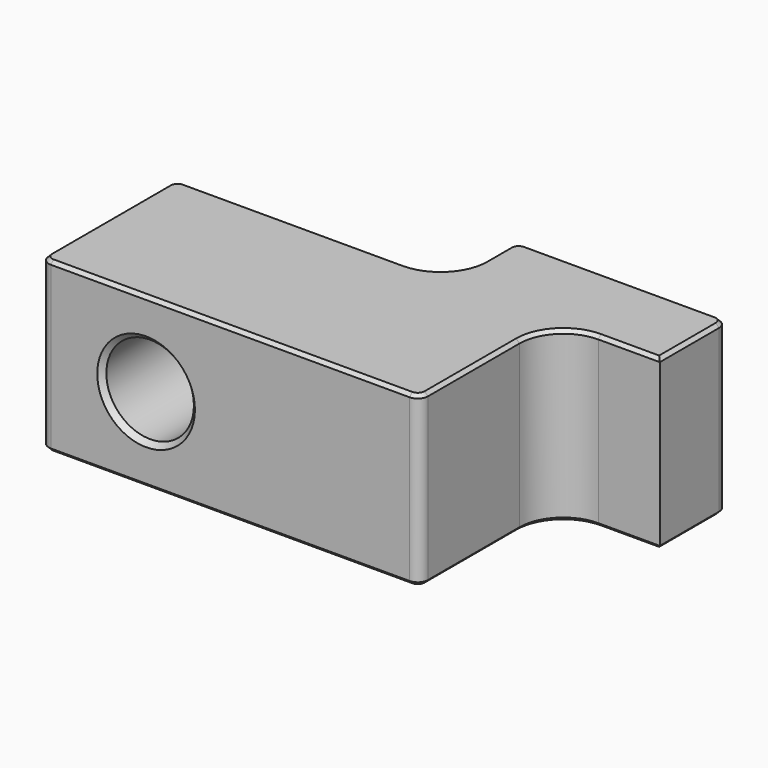
from build123d import *

# Parameters (mm, degrees)
F1_DEPTH = 12.7
F2_R     = 0.762
F3_R     = 3.302
F4_DEPTH = 19.051
F5_SIZE  = 0.381
F6_SIZE  = 0.254


with BuildPart() as f1:
    # F0 (on Top) → F1 (new body)
    with BuildSketch(Plane.XY):
        with BuildLine():
            Line((0, 12.7), (0, 0))
            Line((0, 0), (28.575, 0))
            Line((28.575, 0), (28.575, 9.398))
            ThreePointArc((28.575, 9.398), (29.542133, 11.732867), (31.877, 12.7))
            Line((31.877, 12.7), (36.5125, 12.7))
            Line((36.5125, 12.7), (36.5125, 19.05))
            Line((36.5125, 19.05), (20.6375, 19.05))
            Line((20.6375, 19.05), (20.6375, 16.002))
            ThreePointArc((20.6375, 16.002), (19.670367, 13.667133), (17.3355, 12.7))
            Line((17.3355, 12.7), (0, 12.7))
        make_face()
    extrude(amount=F1_DEPTH)

    # F2
    f2_edges = [f1.edges().sort_by_distance(p)[0] for p in [
        (28.575, 0, 6.35),
        (0, 0, 6.35),
        (0, 12.7, 6.35),
        (20.6375, 19.05, 6.35),
        (36.5125, 19.05, 6.35),
    ]]
    fillet(f2_edges, radius=F2_R)

    # F3 (on face) → F4 (cut, through all)
    with BuildSketch(Plane.XZ):
        with Locations((7.9375, 6.35)):
            Circle(F3_R)
    extrude(amount=-F4_DEPTH, mode=Mode.SUBTRACT)

    # F5
    f5_edges = [f1.edges().sort_by_distance(p)[0] for p in [
        (4.6355, 12.7, 6.35),
        (4.6355, 0, 6.35),
    ]]
    chamfer(f5_edges, length=F5_SIZE)

    # F6
    f6_edges = [f1.edges().sort_by_distance(p)[0] for p in [
        (9.04875, 12.7, 12.7),
        (0.223185, 12.476815, 12.7),
        (19.670367, 13.667133, 12.7),
        (0, 6.35, 12.7),
        (20.6375, 17.145, 12.7),
        (0.223185, 0.223185, 12.7),
        (20.860685, 18.826815, 12.7),
        (14.2875, 0, 12.7),
        (28.575, 19.05, 12.7),
        (28.351815, 0.223185, 12.7),
        (36.289315, 18.826815, 12.7),
        (28.575, 5.08, 12.7),
        (36.5125, 15.494, 12.7),
        (29.542133, 11.732867, 12.7),
        (34.19475, 12.7, 12.7),
        (9.04875, 12.7, 0),
        (0.223185, 12.476815, 0),
        (19.670367, 13.667133, 0),
        (0, 6.35, 0),
        (20.6375, 17.145, 0),
        (0.223185, 0.223185, 0),
        (20.860685, 18.826815, 0),
        (14.2875, 0, 0),
        (28.575, 19.05, 0),
        (28.351815, 0.223185, 0),
        (36.289315, 18.826815, 0),
        (28.575, 5.08, 0),
        (36.5125, 15.494, 0),
        (29.542133, 11.732867, 0),
        (34.19475, 12.7, 0),
    ]]
    chamfer(f6_edges, length=F6_SIZE)


solid = f1.part
